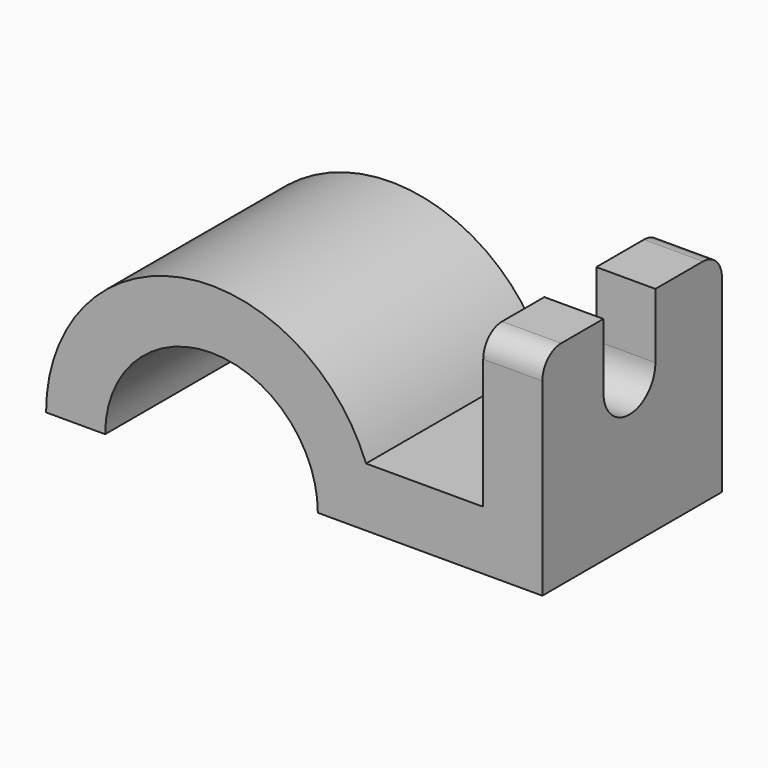
from build123d import *

# Parameters (mm, degrees)
F1_DEPTH = 60.325
F2_R     = 6.35
F3_R     = 6.35
F4_W     = 17.4625
F4_H     = 17.4625
F5_DEPTH = 25.4


with BuildPart() as f1:
    # F0 (on Front) → F1 (new body)
    with BuildSketch(Plane.XZ):
        with BuildLine():
            ThreePointArc((18.421305, 15.875), (-31.178134, 43.737725), (-67.557349, 0))
            Line((-67.557349, 0), (-51.682349, 0))
            ThreePointArc((-51.682349, 0), (-23.107349, 28.575), (5.467651, 0))
            Line((5.467651, 0), (65.792651, 0))
            Line((65.792651, 0), (65.792651, 57.15))
            Line((65.792651, 57.15), (49.917651, 57.15))
            Line((49.917651, 57.15), (49.917651, 15.875))
            Line((49.917651, 15.875), (18.421305, 15.875))
        make_face()
    extrude(amount=F1_DEPTH)

    # F2
    f2_edges = [f1.edges().sort_by_distance(p)[0] for p in [
        (57.855151, -60.325, 57.15),
    ]]
    fillet(f2_edges, radius=F2_R)

    # F3
    f3_edges = [f1.edges().sort_by_distance(p)[0] for p in [
        (57.855151, 0, 57.15),
    ]]
    fillet(f3_edges, radius=F3_R)

    # F4 (on face) → F5 (cut)
    with BuildSketch(Plane.YZ.offset(65.792651)):
        with Locations((-31.080982, 48.41875)):
            Rectangle(F4_W, F4_H)
        with BuildLine():
            Line((-22.349732, 39.6875), (-39.812232, 39.6875))
            ThreePointArc((-39.812232, 39.6875), (-31.080982, 30.95625), (-22.349732, 39.6875))
        make_face()
    extrude(amount=-F5_DEPTH, mode=Mode.SUBTRACT)


solid = f1.part
